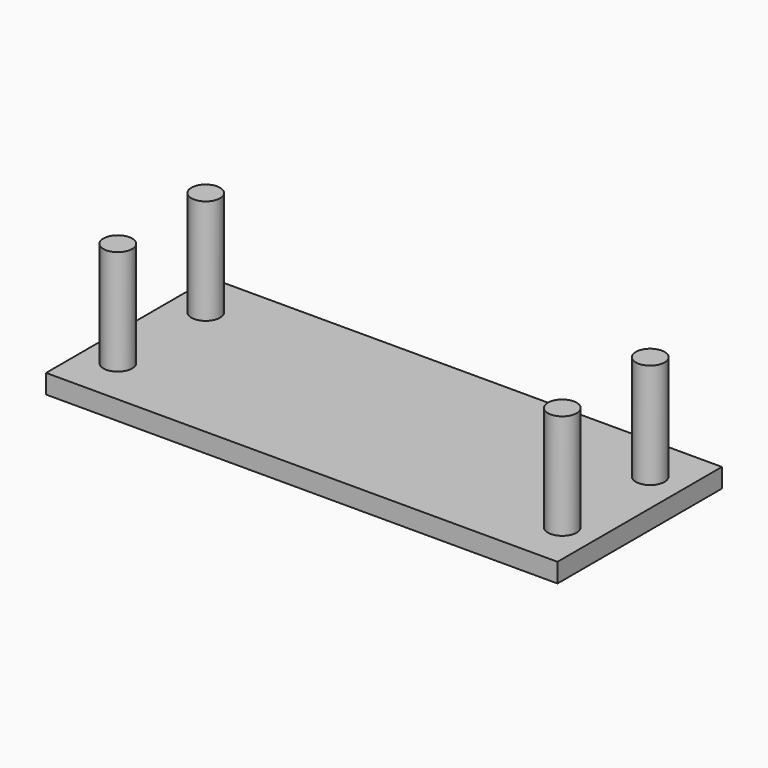
from build123d import *

# Parameters (mm, degrees)
F0_W     = 1358.9
F0_H     = 546.1
F1_DEPTH = 50.8
F2_R     = 38.1
F3_DEPTH = 330.2


with BuildPart() as f1:
    # F0 (on Top) → F1 (new body)
    with BuildSketch(Plane.XY):
        with Locations((679.45, 273.05)):
            Rectangle(F0_W, F0_H)
    extrude(amount=F1_DEPTH)

    # F2 (on face) → F3 (join)
    with BuildSketch(Plane(origin=(0, 0, 0), x_dir=(1, 0, 0), z_dir=(0, 0, -1))):
        with Locations((88.9, -127)):
            Circle(F2_R)
        with Locations((1270, -127)):
            Circle(F2_R)
        with Locations((88.9, -419.1)):
            Circle(F2_R)
        with Locations((1270, -419.1)):
            Circle(F2_R)
    extrude(amount=-F3_DEPTH)


solid = f1.part
